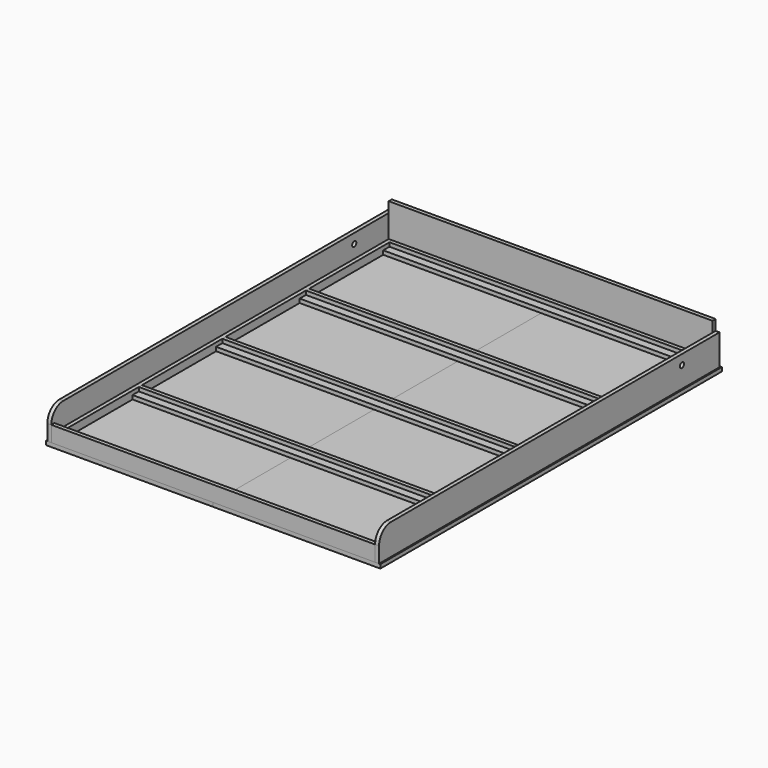
from build123d import *

# Parameters (mm, degrees)
F0_W      = 812.8
F0_H      = 2076.45
F1_DEPTH  = 19.05
F2_DEPTH  = 19.05
F3_W      = 1536.7
F3_H      = 38.1
F4_DEPTH  = 19.05
F3_H_2    = 19.05
F5_DEPTH  = 38.1
F6_DEPTH  = 38.1
F7_DEPTH  = 76.2
F8_DEPTH  = 149.225
F9_DEPTH  = 200.025
F10_R     = 73.025
F11_R     = 12.7
F12_DEPTH = 1619.251


with BuildPart() as f1:
    # F0 (on Top) → F1 (new body)
    with BuildSketch(Plane.XY):
        with Locations((406.4, 1038.225)):
            Rectangle(F0_W, F0_H)
    extrude(amount=-F1_DEPTH)


with BuildPart() as f2:
    # F0 (on Top) → F2 (new body)
    with BuildSketch(Plane.XY):
        with Locations((1219.2, 1038.225)):
            Rectangle(F0_W, F0_H)
    extrude(amount=-F2_DEPTH)


with BuildPart() as f4:
    # F3 (on Top) → F4 (new body)
    with BuildSketch(Plane.XY):
        with Locations((812.8, 2012.95)):
            Rectangle(F3_W, F3_H)
        with Locations((812.8, 1504.95)):
            Rectangle(F3_W, F3_H)
        with Locations((812.8, 996.95)):
            Rectangle(F3_W, F3_H)
        with Locations((812.8, 488.95)):
            Rectangle(F3_W, F3_H)
        with Locations((812.8, 57.15)):
            Rectangle(F3_W, F3_H)
    extrude(amount=F4_DEPTH)


with BuildPart() as f5:
    # F3 (on Top) → F5 (new body)
    with BuildSketch(Plane.XY):
        with Locations((812.8, 2041.525)):
            Rectangle(F3_W, F3_H_2)
        with Locations((812.8, 1533.525)):
            Rectangle(F3_W, F3_H_2)
        with Locations((812.8, 1025.525)):
            Rectangle(F3_W, F3_H_2)
        with Locations((812.8, 517.525)):
            Rectangle(F3_W, F3_H_2)
        with Locations((812.8, 28.575)):
            Rectangle(F3_W, F3_H_2)
    extrude(amount=F5_DEPTH)


with BuildPart() as f6:
    # F3 (on Top) → F6 (new body)
    with BuildSketch(Plane.XY):
        Polygon((44.45, 2032), (44.45, 2051.05), (25.4, 2051.05), (25.4, 19.05), (44.45, 19.05), (44.45, 38.1), (44.45, 76.2), (44.45, 469.9), (44.45, 508), (44.45, 527.05), (44.45, 977.9), (44.45, 1016), (44.45, 1035.05), (44.45, 1485.9), (44.45, 1524), (44.45, 1543.05), (44.45, 1993.9), align=None)
        Polygon((1600.2, 2051.05), (1581.15, 2051.05), (1581.15, 2032), (1581.15, 1993.9), (1581.15, 1543.05), (1581.15, 1524), (1581.15, 1485.9), (1581.15, 1035.05), (1581.15, 1016), (1581.15, 977.9), (1581.15, 527.05), (1581.15, 508), (1581.15, 469.9), (1581.15, 76.2), (1581.15, 38.1), (1581.15, 19.05), (1600.2, 19.05), align=None)
    extrude(amount=F6_DEPTH)


with BuildPart() as f7:
    # F3 (on Top) → F7 (new body)
    with BuildSketch(Plane.XY):
        Polygon((44.45, 19.05), (25.4, 19.05), (25.4, 0), (1600.2, 0), (1600.2, 19.05), (1581.15, 19.05), align=None)
    extrude(amount=F7_DEPTH)


with BuildPart() as f8:
    # F3 (on Top) → F8 (new body)
    with BuildSketch(Plane.XY):
        Polygon((25.4, 19.05), (25.4, 2051.05), (25.4, 2070.1), (6.35, 2070.1), (6.35, 0), (25.4, 0), align=None)
        Polygon((1600.2, 2070.1), (1600.2, 2051.05), (1600.2, 19.05), (1600.2, 0), (1619.25, 0), (1619.25, 2070.1), align=None)
    extrude(amount=F8_DEPTH)

    # F10
    f10_edges = [f8.edges().sort_by_distance(p)[0] for p in [
        (15.875, 0, 149.225),
        (1609.725, 0, 149.225),
    ]]
    fillet(f10_edges, radius=F10_R)

    # F11 (on face) → F12 (cut, through all)
    with BuildSketch(Plane(origin=(6.35, 0, 0), x_dir=(0, -1, 0), z_dir=(-1, 0, 0))):
        with Locations((-1841.5, 101.6)):
            Circle(F11_R)
    extrude(amount=-F12_DEPTH, mode=Mode.SUBTRACT)


with BuildPart() as f9:
    # F3 (on Top) → F9 (new body)
    with BuildSketch(Plane.XY):
        Polygon((25.4, 2051.05), (44.45, 2051.05), (1581.15, 2051.05), (1600.2, 2051.05), (1600.2, 2070.1), (25.4, 2070.1), align=None)
    extrude(amount=F9_DEPTH)


solid = Compound([f1.part, f2.part, f4.part, f5.part, f6.part, f7.part, f8.part, f9.part])
